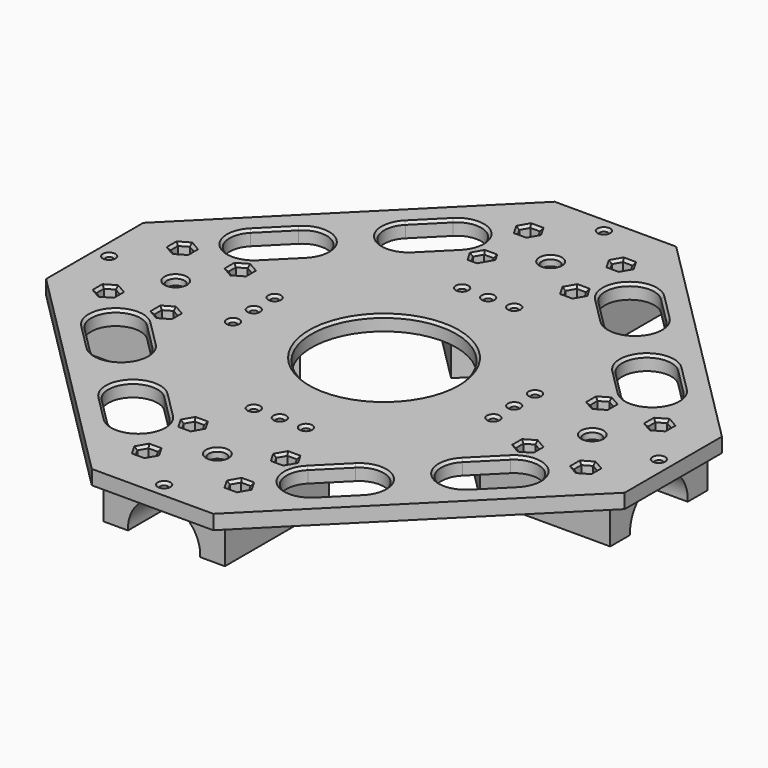
from build123d import *

# Parameters (mm, degrees)
SKETCH007_R                = 1.3
EXTRUDE011_DEPTH           = 20
SKETCH008_R                = 3
EXTRUDE012_DEPTH           = 3
SKETCH006_R                = 1.3
SKETCH006_R_2              = 25
EXTRUDE010_DEPTH           = 20
EXTRUDE009_DEPTH           = 6
SKETCH004_R                = 1.75
EXTRUDE008_DEPTH           = 15
FUSION005_PLACEMENT_ANGLE  = 90
FUSION004_PLACEMENT_ANGLE  = 90
SKETCH003_R                = 12.5
EXTRUDE007_DEPTH           = 55
EXTRUDE007_ROLL_ANGLE      = -90
EXTRUDE005_DEPTH           = 55
EXTRUDE005_PITCH_ANGLE     = 90
EXTRUDE006_DEPTH           = 55
EXTRUDE006_ROLL_ANGLE      = 90
EXTRUDE004_DEPTH           = 55
EXTRUDE004_PITCH_ANGLE     = -90
EXTRUDE003_DEPTH           = 13
SKETCH001_W                = 42
SKETCH001_H                = 190
EXTRUDE001_DEPTH           = 16
EXTRUDE001_PLACEMENT_ANGLE = 90
EXTRUDE002_DEPTH           = 16
EXTRUDE_DEPTH              = 5
CHAMFER_SIZE               = 0.9


with BuildPart() as extrude011:
    # Sketch007 → Extrude011 (new body)
    with BuildSketch(Plane.XY):
        with Locations((0, -95)):
            Circle(SKETCH007_R)
        with Locations((95, 0)):
            Circle(SKETCH007_R)
        with Locations((0, 95)):
            Circle(SKETCH007_R)
        with Locations((-95, 0)):
            Circle(SKETCH007_R)
        with Locations((0, -72)):
            Circle(SKETCH007_R)
        with Locations((72, 0)):
            Circle(SKETCH007_R)
        with Locations((0, 72)):
            Circle(SKETCH007_R)
        with Locations((-72, 0)):
            Circle(SKETCH007_R)
    extrude(amount=EXTRUDE011_DEPTH)


with BuildPart() as extrude011_1:
    # Extrude011 placement: moved
    add(extrude011.part.moved(Location((0, 0, -5))))


with BuildPart() as fusion007:
    # Sketch008 → Extrude012 (new body)
    with BuildSketch(Plane.XY):
        with Locations((0, -72)):
            Circle(SKETCH008_R)
        with Locations((72, 0)):
            Circle(SKETCH008_R)
        with Locations((0, 72)):
            Circle(SKETCH008_R)
        with Locations((-72, 0)):
            Circle(SKETCH008_R)
    extrude(amount=EXTRUDE012_DEPTH)


with BuildPart() as fusion007_1:
    # Extrude012 placement: moved
    add(fusion007.part.moved(Location((0, 0, 2))))

    # Fusion007: union Extrude011
    add(extrude011_1.part)


with BuildPart() as extrude010:
    # Sketch006 → Extrude010 (new body)
    with BuildSketch(Plane.XY):
        with Locations((-9, 45)):
            Circle(SKETCH006_R)
        with Locations((0, 45)):
            Circle(SKETCH006_R)
        with Locations((9, 45)):
            Circle(SKETCH006_R)
        with Locations((45, 9)):
            Circle(SKETCH006_R)
        with Locations((45, 0)):
            Circle(SKETCH006_R)
        with Locations((45, -9)):
            Circle(SKETCH006_R)
        with Locations((9, -45)):
            Circle(SKETCH006_R)
        with Locations((0, -45)):
            Circle(SKETCH006_R)
        with Locations((-9, -45)):
            Circle(SKETCH006_R)
        with Locations((-45, -9)):
            Circle(SKETCH006_R)
        with Locations((-45, 0)):
            Circle(SKETCH006_R)
        with Locations((-45, 9)):
            Circle(SKETCH006_R)
        Circle(SKETCH006_R_2)
    extrude(amount=-EXTRUDE010_DEPTH)


with BuildPart() as extrude010_1:
    # Extrude010 placement: moved
    add(extrude010.part.moved(Location((0, 0, 6))))


with BuildPart() as extrude009:
    # Sketch005 → Extrude009 (new body)
    with BuildSketch(Plane.XY):
        Polygon((-14.375, 12.814583), (-17.625, 12.814583), (-19.25, 10), (-17.625, 7.185417), (-14.375, 7.185417), (-12.75, 10), align=None)
        Polygon((17.625, 7.185417), (19.25, 10), (17.625, 12.814583), (14.375, 12.814583), (12.75, 10), (14.375, 7.185417), align=None)
        Polygon((19.25, -10), (17.625, -7.185417), (14.375, -7.185417), (12.75, -10), (14.375, -12.814583), (17.625, -12.814583), align=None)
        Polygon((-14.375, -7.185417), (-17.625, -7.185417), (-19.25, -10), (-17.625, -12.814583), (-14.375, -12.814583), (-12.75, -10), align=None)
    extrude(amount=EXTRUDE009_DEPTH)


with BuildPart() as extrude008:
    # Sketch004 → Extrude008 (new body)
    with BuildSketch(Plane.XY):
        with Locations((-16, 10)):
            Circle(SKETCH004_R)
        with Locations((16, 10)):
            Circle(SKETCH004_R)
        with Locations((16, -10)):
            Circle(SKETCH004_R)
        with Locations((-16, -10)):
            Circle(SKETCH004_R)
    extrude(amount=-EXTRUDE008_DEPTH)


with BuildPart() as nutholes003:
    # Fusion005 base: copy of Extrude008
    add(extrude008.part)

    # Fusion005: union Extrude009
    add(extrude009.part)


with BuildPart() as nutholes003_1:
    # Fusion005 placement: moved
    add(nutholes003.part.moved(Location((-72.5, 0, 0))).rotate(Axis((-72.5, 0, 0), (0, 0, 1)), FUSION005_PLACEMENT_ANGLE))


with BuildPart() as nutholes001:
    # Fusion003 base: copy of Extrude008
    add(extrude008.part)

    # Fusion003: union Extrude009
    add(extrude009.part)


with BuildPart() as nutholes001_1:
    # Fusion003 placement: moved
    add(nutholes001.part.moved(Location((0, -72.5, 0))))


with BuildPart() as nutholes002:
    # Fusion004 base: copy of Extrude008
    add(extrude008.part)

    # Fusion004: union Extrude009
    add(extrude009.part)


with BuildPart() as nutholes002_1:
    # Fusion004 placement: moved
    add(nutholes002.part.moved(Location((72.5, 0, 0))).rotate(Axis((72.5, 0, 0), (0, 0, 1)), FUSION004_PLACEMENT_ANGLE))


with BuildPart() as legsmountingholes:
    # Fusion002 base: copy of Extrude008
    add(extrude008.part)

    # Fusion002: union Extrude009
    add(extrude009.part)


with BuildPart() as legsmountingholes_1:
    # Fusion002 placement: moved
    add(legsmountingholes.part.moved(Location((0, 72.5, 0))))

    # Fusion006: union NutHoles003, NutHoles001, NutHoles002
    add(nutholes003_1.part)
    add(nutholes001_1.part)
    add(nutholes002_1.part)


with BuildPart() as extrude007:
    # Sketch003 → Extrude007 (new body)
    with BuildSketch(Plane.XY):
        Circle(SKETCH003_R)
    extrude(amount=EXTRUDE007_DEPTH)


with BuildPart() as extrude007_1:
    # Extrude007 roll: moved
    add(extrude007.part.rotate(Axis((0, 0, 0), (1, 0, 0)), EXTRUDE007_ROLL_ANGLE))


with BuildPart() as extrude007_2:
    # Extrude007 placement: moved
    add(extrude007_1.part.moved(Location((0, 50, -12.5))))


with BuildPart() as extrude005:
    # Sketch003 → Extrude005 (new body)
    with BuildSketch(Plane.XY):
        Circle(SKETCH003_R)
    extrude(amount=EXTRUDE005_DEPTH)


with BuildPart() as extrude005_1:
    # Extrude005 pitch: moved
    add(extrude005.part.rotate(Axis((0, 0, 0), (0, 1, 0)), EXTRUDE005_PITCH_ANGLE))


with BuildPart() as extrude005_2:
    # Extrude005 placement: moved
    add(extrude005_1.part.moved(Location((50, 0, -12.5))))


with BuildPart() as extrude006:
    # Sketch003 → Extrude006 (new body)
    with BuildSketch(Plane.XY):
        Circle(SKETCH003_R)
    extrude(amount=EXTRUDE006_DEPTH)


with BuildPart() as extrude006_1:
    # Extrude006 roll: moved
    add(extrude006.part.rotate(Axis((0, 0, 0), (1, 0, 0)), EXTRUDE006_ROLL_ANGLE))


with BuildPart() as extrude006_2:
    # Extrude006 placement: moved
    add(extrude006_1.part.moved(Location((0, -50, -12.5))))


with BuildPart() as tubes:
    # Sketch003 → Extrude004 (new body)
    with BuildSketch(Plane.XY):
        Circle(SKETCH003_R)
    extrude(amount=EXTRUDE004_DEPTH)


with BuildPart() as tubes_1:
    # Extrude004 pitch: moved
    add(tubes.part.rotate(Axis((0, 0, 0), (0, 1, 0)), EXTRUDE004_PITCH_ANGLE))


with BuildPart() as tubes_2:
    # Extrude004 placement: moved
    add(tubes_1.part.moved(Location((-50, 0, -12.5))))

    # Fusion001: union Extrude007, Extrude005, Extrude006
    add(extrude007_2.part)
    add(extrude005_2.part)
    add(extrude006_2.part)


with BuildPart() as extrude003:
    # Sketch002 → Extrude003 (new body)
    with BuildSketch(Plane.XY):
        Polygon((21, 50), (50, 21), (29, 0), (50, -21), (21, -50), (0, -29), (-21, -50), (-50, -21), (-29, 0), (-50, 21), (-21, 50), (0, 29), align=None)
    extrude(amount=-EXTRUDE003_DEPTH)


with BuildPart() as extrude001:
    # Sketch001 → Extrude001 (new body)
    with BuildSketch(Plane.XY):
        Rectangle(SKETCH001_W, SKETCH001_H)
    extrude(amount=-EXTRUDE001_DEPTH)


with BuildPart() as extrude001_1:
    # Extrude001 placement: moved
    add(extrude001.part.moved(Location((0, 0, 3))).rotate(Axis((0, 0, 3), (0, 0, 1)), EXTRUDE001_PLACEMENT_ANGLE))


with BuildPart() as extrude002:
    # Sketch001 → Extrude002 (new body)
    with BuildSketch(Plane.XY):
        Rectangle(SKETCH001_W, SKETCH001_H)
    extrude(amount=-EXTRUDE002_DEPTH)


with BuildPart() as extrude002_1:
    # Extrude002 placement: moved
    add(extrude002.part.moved(Location((0, 0, 3))))


with BuildPart() as chamfer_body:
    # Sketch → Extrude (new body)
    with BuildSketch(Plane.XY):
        Polygon((-21, 100), (21, 100), (100, 21), (100, -21), (21, -100), (-21, -100), (-100, -21), (-100, 21), align=None)
        with BuildLine():
            ThreePointArc((-74.79523, 35.904357), (-74.79523, 23.883542), (-62.774415, 23.883542))
            Line((-62.774415, 23.883542), (-53.582027, 33.07593))
            ThreePointArc((-53.582027, 33.07593), (-53.582027, 45.096745), (-65.602842, 45.096745))
            Line((-74.79523, 35.904357), (-65.602842, 45.096745))
        make_face(mode=Mode.SUBTRACT)
        with BuildLine():
            ThreePointArc((-23.883542, 62.774415), (-23.883542, 74.79523), (-35.904357, 74.79523))
            Line((-35.904357, 74.79523), (-45.096745, 65.602842))
            ThreePointArc((-45.096745, 65.602842), (-45.096745, 53.582027), (-33.07593, 53.582027))
            Line((-23.883542, 62.774415), (-33.07593, 53.582027))
        make_face(mode=Mode.SUBTRACT)
        with BuildLine():
            ThreePointArc((23.883542, -62.774415), (23.883542, -74.79523), (35.904357, -74.79523))
            Line((35.904357, -74.79523), (45.096745, -65.602842))
            ThreePointArc((45.096745, -65.602842), (45.096745, -53.582027), (33.07593, -53.582027))
            Line((23.883542, -62.774415), (33.07593, -53.582027))
        make_face(mode=Mode.SUBTRACT)
        with BuildLine():
            ThreePointArc((74.79523, -35.904357), (74.79523, -23.883542), (62.774415, -23.883542))
            Line((62.774415, -23.883542), (53.582027, -33.07593))
            ThreePointArc((53.582027, -33.07593), (53.582027, -45.096745), (65.602842, -45.096745))
            Line((74.79523, -35.904357), (65.602842, -45.096745))
        make_face(mode=Mode.SUBTRACT)
        with BuildLine():
            ThreePointArc((-62.774415, -23.883542), (-74.79523, -23.883542), (-74.79523, -35.904357))
            Line((-74.79523, -35.904357), (-65.602842, -45.096745))
            ThreePointArc((-65.602842, -45.096745), (-53.582027, -45.096745), (-53.582027, -33.07593))
            Line((-62.774415, -23.883542), (-53.582027, -33.07593))
        make_face(mode=Mode.SUBTRACT)
        with BuildLine():
            ThreePointArc((-35.904357, -74.79523), (-23.883542, -74.79523), (-23.883542, -62.774415))
            Line((-23.883542, -62.774415), (-33.07593, -53.582027))
            ThreePointArc((-33.07593, -53.582027), (-45.096745, -53.582027), (-45.096745, -65.602842))
            Line((-35.904357, -74.79523), (-45.096745, -65.602842))
        make_face(mode=Mode.SUBTRACT)
        with BuildLine():
            ThreePointArc((35.904357, 74.79523), (23.883542, 74.79523), (23.883542, 62.774415))
            Line((23.883542, 62.774415), (33.07593, 53.582027))
            ThreePointArc((33.07593, 53.582027), (45.096745, 53.582027), (45.096745, 65.602842))
            Line((35.904357, 74.79523), (45.096745, 65.602842))
        make_face(mode=Mode.SUBTRACT)
        with BuildLine():
            ThreePointArc((62.774415, 23.883542), (74.79523, 23.883542), (74.79523, 35.904357))
            Line((74.79523, 35.904357), (65.602842, 45.096745))
            ThreePointArc((65.602842, 45.096745), (53.582027, 45.096745), (53.582027, 33.07593))
            Line((62.774415, 23.883542), (53.582027, 33.07593))
        make_face(mode=Mode.SUBTRACT)
    extrude(amount=EXTRUDE_DEPTH)

    # Fusion: union Extrude001, Extrude002
    add(extrude001_1.part)
    add(extrude002_1.part)

    # Cut: cut Extrude003
    add(extrude003.part, mode=Mode.SUBTRACT)

    # Cut001: cut Tubes
    add(tubes_2.part, mode=Mode.SUBTRACT)

    # Cut002: cut LegsMountingHoles
    add(legsmountingholes_1.part, mode=Mode.SUBTRACT)

    # Cut003: cut Extrude010
    add(extrude010_1.part, mode=Mode.SUBTRACT)

    # Cut004: cut Fusion007
    add(fusion007_1.part, mode=Mode.SUBTRACT)

    # Chamfer
    chamfer_edges = [chamfer_body.edges().sort_by_distance(p)[0] for p in [
        (43.7, 9, 5),
        (43.7, 0, 5),
        (43.7, -9, 5),
        (23.883542, -74.79523, 5),
        (28.479736, -58.178221, 5),
        (40.500551, -70.199036, 5),
        (45.096745, -53.582027, 5),
        (-10.3, -45, 5),
        (-1.3, -45, 5),
        (7.7, -45, 5),
        (18.4375, -63.907291, 5),
        (18.4375, -61.092709, 5),
        (16, -65.314583, 5),
        (16, -59.685417, 5),
        (13.5625, -63.907291, 5),
        (13.5625, -61.092709, 5),
        (-3, -72, 5),
        (-46.3, 9, 5),
        (-46.3, 0, 5),
        (-46.3, -9, 5),
        (-25, 0, 5),
        (-23.883542, -74.79523, 5),
        (-40.500551, -70.199036, 5),
        (-28.479736, -58.178221, 5),
        (-45.096745, -53.582027, 5),
        (-18.4375, -61.092709, 5),
        (-18.4375, -63.907291, 5),
        (-16, -59.685417, 5),
        (-16, -65.314583, 5),
        (-13.5625, -61.092709, 5),
        (-13.5625, -63.907291, 5),
        (-96.3, 0, 5),
        (-75, 0, 5),
        (-61.092709, -18.4375, 5),
        (-59.685417, -16, 5),
        (-63.907291, -18.4375, 5),
        (-61.092709, -13.5625, 5),
        (-65.314583, -16, 5),
        (-63.907291, -13.5625, 5),
        (-83.907291, -13.5625, 5),
        (-85.314583, -16, 5),
        (-81.092709, -13.5625, 5),
        (-83.907291, -18.4375, 5),
        (-79.685417, -16, 5),
        (-81.092709, -18.4375, 5),
        (-74.79523, -23.883542, 5),
        (-58.178221, -28.479736, 5),
        (-70.199036, -40.500551, 5),
        (-53.582027, -45.096745, 5),
        (-74.79523, 23.883542, 5),
        (-70.199036, 40.500551, 5),
        (-58.178221, 28.479736, 5),
        (-53.582027, 45.096745, 5),
        (-81.092709, 18.4375, 5),
        (-83.907291, 18.4375, 5),
        (-79.685417, 16, 5),
        (-85.314583, 16, 5),
        (-81.092709, 13.5625, 5),
        (-83.907291, 13.5625, 5),
        (-61.092709, 13.5625, 5),
        (-59.685417, 16, 5),
        (-63.907291, 13.5625, 5),
        (-61.092709, 18.4375, 5),
        (-65.314583, 16, 5),
        (-63.907291, 18.4375, 5),
        (16, 65.314583, 5),
        (13.5625, 63.907291, 5),
        (18.4375, 63.907291, 5),
        (13.5625, 61.092709, 5),
        (18.4375, 61.092709, 5),
        (16, 59.685417, 5),
        (-13.5625, 63.907291, 5),
        (-16, 59.685417, 5),
        (-16, 65.314583, 5),
        (-18.4375, 61.092709, 5),
        (-18.4375, 63.907291, 5),
        (-3, 72, 5),
        (-23.883542, 74.79523, 5),
        (-28.479736, 58.178221, 5),
        (-40.500551, 70.199036, 5),
        (-45.096745, 53.582027, 5),
        (7.7, 45, 5),
        (-1.3, 45, 5),
        (-10.3, 45, 5),
        (23.883542, 74.79523, 5),
        (40.500551, 70.199036, 5),
        (28.479736, 58.178221, 5),
        (45.096745, 53.582027, 5),
        (16, 85.314583, 5),
        (13.5625, 83.907291, 5),
        (18.4375, 83.907291, 5),
        (13.5625, 81.092709, 5),
        (18.4375, 81.092709, 5),
        (16, 79.685417, 5),
        (-16, 85.314583, 5),
        (-18.4375, 83.907291, 5),
        (-13.5625, 83.907291, 5),
        (-18.4375, 81.092709, 5),
        (-13.5625, 81.092709, 5),
        (-16, 79.685417, 5),
        (61.092709, -13.5625, 5),
        (59.685417, -16, 5),
        (63.907291, -13.5625, 5),
        (61.092709, -18.4375, 5),
        (65.314583, -16, 5),
        (63.907291, -18.4375, 5),
        (63.907291, 18.4375, 5),
        (61.092709, 18.4375, 5),
        (65.314583, 16, 5),
        (59.685417, 16, 5),
        (63.907291, 13.5625, 5),
        (61.092709, 13.5625, 5),
        (74.79523, 23.883542, 5),
        (58.178221, 28.479736, 5),
        (70.199036, 40.500551, 5),
        (53.582027, 45.096745, 5),
        (74.79523, -23.883542, 5),
        (70.199036, -40.500551, 5),
        (58.178221, -28.479736, 5),
        (53.582027, -45.096745, 5),
        (-1.3, 95, 5),
        (69, 0, 5),
        (-18.4375, -81.092709, 5),
        (-18.4375, -83.907291, 5),
        (-16, -79.685417, 5),
        (-16, -85.314583, 5),
        (-13.5625, -81.092709, 5),
        (-13.5625, -83.907291, 5),
        (13.5625, -83.907291, 5),
        (16, -85.314583, 5),
        (13.5625, -81.092709, 5),
        (18.4375, -83.907291, 5),
        (16, -79.685417, 5),
        (18.4375, -81.092709, 5),
        (85.314583, -16, 5),
        (83.907291, -13.5625, 5),
        (83.907291, -18.4375, 5),
        (81.092709, -13.5625, 5),
        (81.092709, -18.4375, 5),
        (79.685417, -16, 5),
        (83.907291, 18.4375, 5),
        (81.092709, 18.4375, 5),
        (85.314583, 16, 5),
        (79.685417, 16, 5),
        (83.907291, 13.5625, 5),
        (81.092709, 13.5625, 5),
        (-1.3, -95, 5),
        (93.7, 0, 5),
    ]]
    chamfer(chamfer_edges, length=CHAMFER_SIZE)


solid = chamfer_body.part
